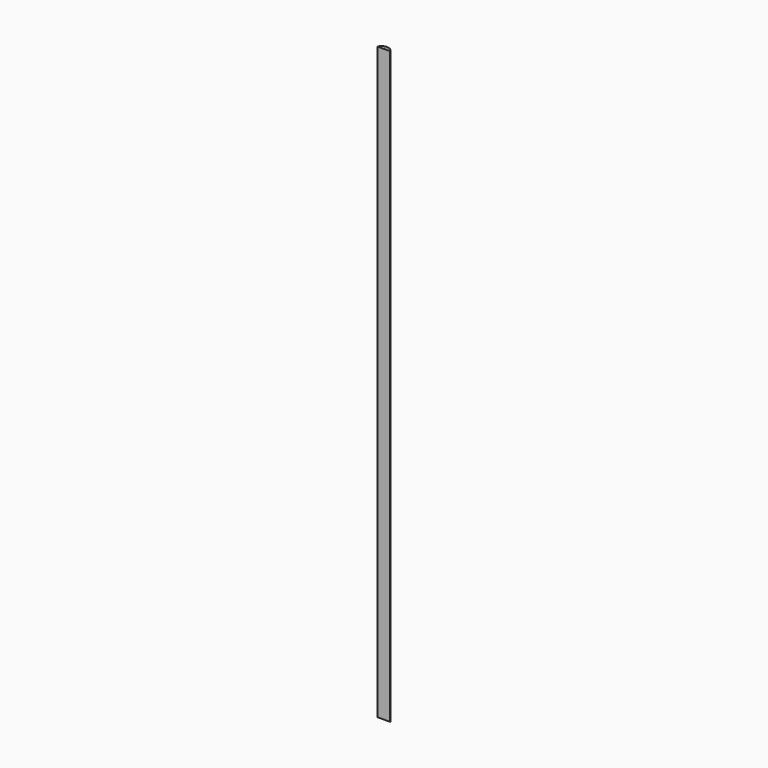
from build123d import *

# Parameters (mm, degrees)
PAD_DEPTH = 350


with BuildPart() as part:
    # Sketch → Pad (new body)
    with BuildSketch(Plane.XY):
        with BuildLine():
            ThreePointArc((3.775712, 0), (0, 2.4), (-3.775712, 0))
            Line((-3.775712, 0), (3.775712, 0))
        make_face()
    extrude(amount=PAD_DEPTH)


solid = part.part
